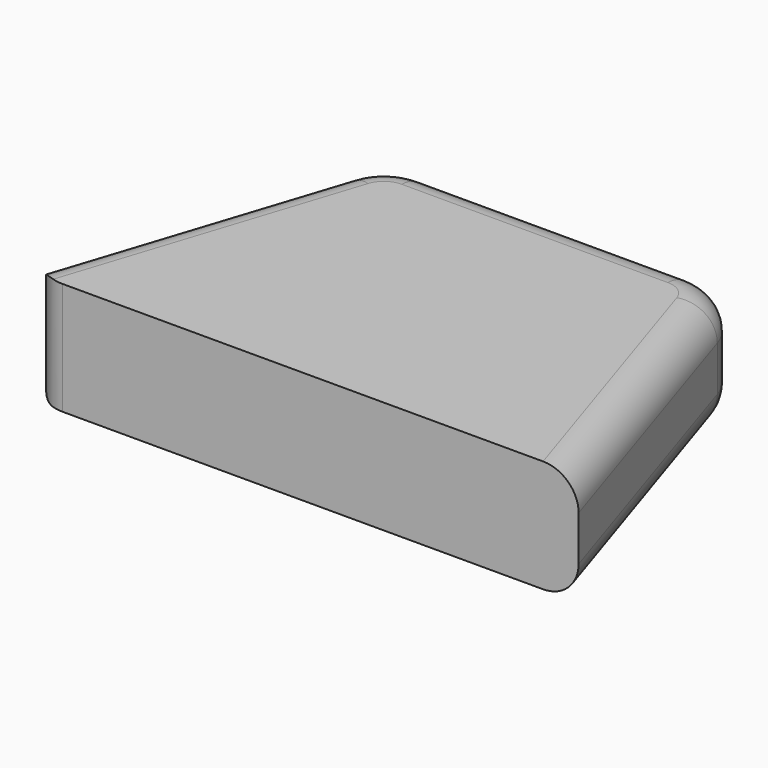
from build123d import *

# Parameters (mm, degrees)
F1_DEPTH = 10
F2_R     = 5
F3_R     = 3


with BuildPart() as f1:
    # F0 (on Top) → F1 (new body)
    with BuildSketch(Plane.XY):
        Polygon((-15.45085, 21.26627), (-25, -8.122992), (25, -8.122992), (15.45085, 21.26627), align=None)
    extrude(amount=F1_DEPTH)

    # F2
    f2_edges = [f1.edges().sort_by_distance(p)[0] for p in [
        (-15.45085, 21.26627, 5),
        (15.45085, 21.26627, 5),
    ]]
    fillet(f2_edges, radius=F2_R)

    # F3
    f3_edges = [f1.edges().sort_by_distance(p)[0] for p in [
        (-20.78671, 4.844181, 0),
        (-16.57342, 17.811355, 5),
        (-25, -8.122992, 5),
        (-20.78671, 4.844181, 10),
    ]]
    fillet(f3_edges, radius=F3_R)


solid = f1.part
